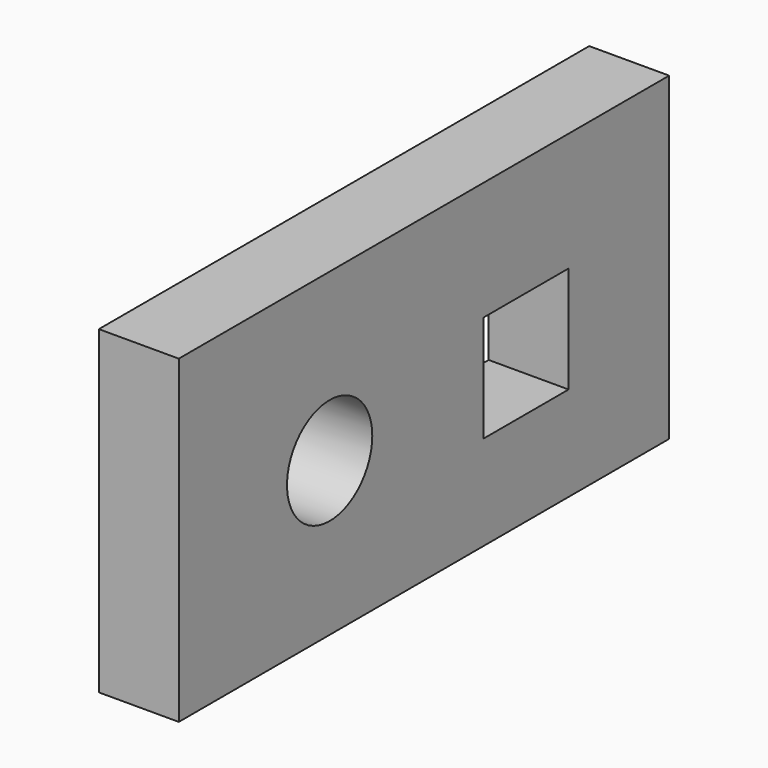
from build123d import *

# Parameters (mm, degrees)
F0_W     = 146.05
F0_H     = 76.2
F0_R     = 12.7
F0_W_2   = 25.4
F0_H_2   = 25.4
F1_DEPTH = 19.05


with BuildPart() as f1:
    # F0 (on Right) → F1 (new body)
    with BuildSketch(Plane.YZ):
        with Locations((12.301423, 10.411573)):
            Rectangle(F0_W, F0_H)
        with Locations((-15.796335, 8.874941)):
            Circle(F0_R, mode=Mode.SUBTRACT)
        with Locations((42.679881, 7.544224)):
            Rectangle(F0_W_2, F0_H_2, mode=Mode.SUBTRACT)
    extrude(amount=F1_DEPTH)


solid = f1.part
